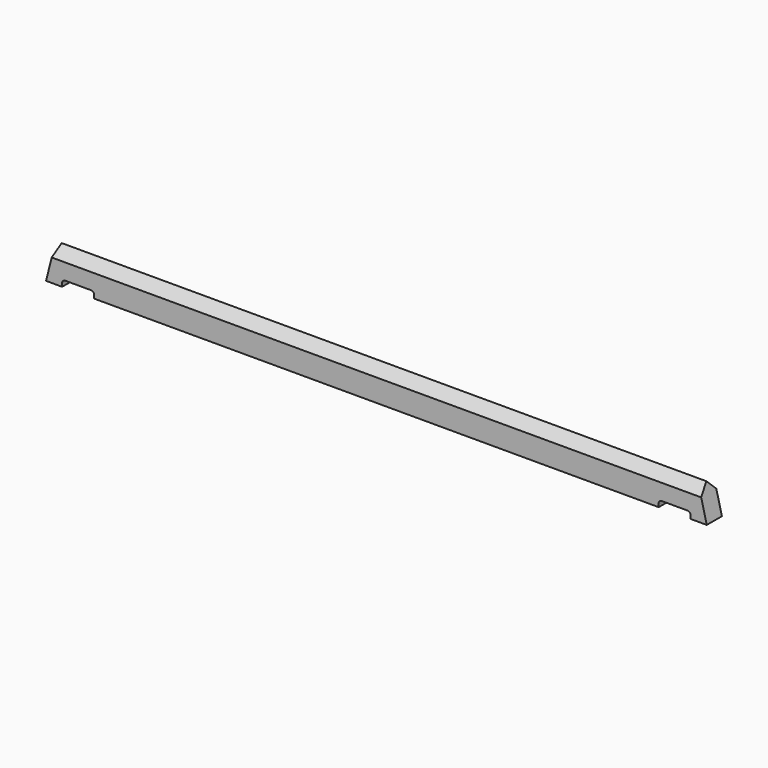
from build123d import *

# Parameters (mm, degrees)
F1_DEPTH = 5.9
F3_DEPTH = 300


with BuildPart() as f1:
    # F0 (on Front) → F1 (new body)
    with BuildSketch(Plane.XZ):
        with BuildLine():
            Line((-5, 0), (0, 0))
            Line((0, 0), (-2.5, 10))
            Line((-2.5, 10), (-103, 10))
            Line((-103, 10), (-203.5, 10))
            Line((-203.5, 10), (-206, 0))
            Line((-206, 0), (-201, 0))
            Line((-201, 0), (-201, 1))
            ThreePointArc((-201, 1), (-200.707107, 1.707107), (-200, 2))
            Line((-200, 2), (-192, 2))
            ThreePointArc((-192, 2), (-191.212238, 1.627614), (-191, 0.782513))
            Line((-191, 0.782513), (-191, 0))
            Line((-191, 0), (-15, 0))
            Line((-15, 0), (-15, 0.782513))
            ThreePointArc((-15, 0.782513), (-14.787762, 1.627614), (-14, 2))
            Line((-14, 2), (-6, 2))
            ThreePointArc((-6, 2), (-5.292893, 1.707107), (-5, 1))
            Line((-5, 1), (-5, 0))
        make_face()
    extrude(amount=F1_DEPTH)

    # F2 (on Right) → F3 (cut)
    with BuildSketch(Plane.YZ):
        Polygon((-5.9, 7), (-2.95, 10), (-5.9, 10), align=None)
        Polygon((0, 10), (-2.95, 10), (0, 7), align=None)
    extrude(amount=-F3_DEPTH, mode=Mode.SUBTRACT)


solid = f1.part
